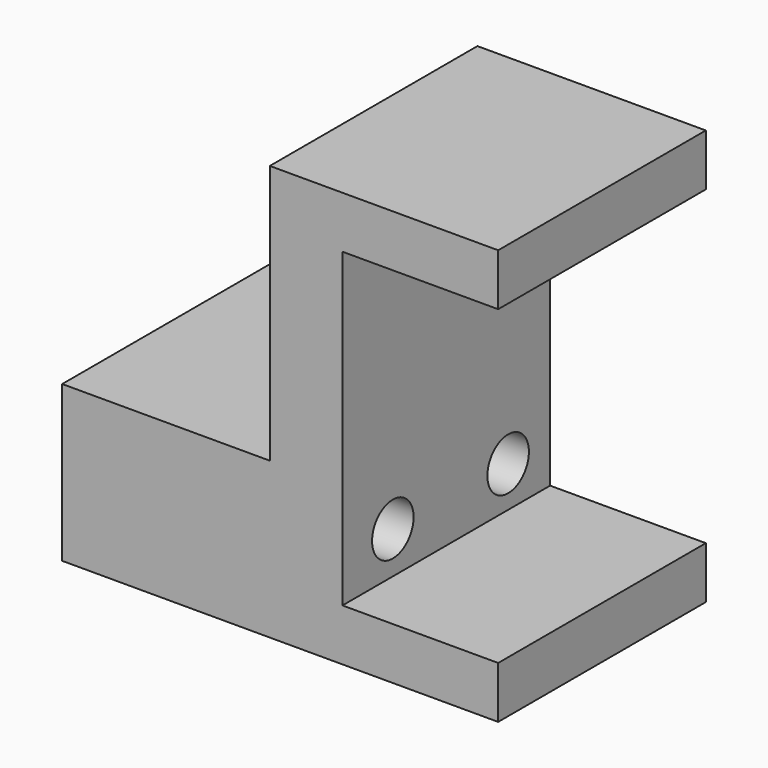
from build123d import *

# Parameters (mm, degrees)
PAD_DEPTH   = 25
SKETCH001_R = 2.5
HOLE_DEPTH  = 45


with BuildPart() as part:
    # Sketch → Pad (new body)
    with BuildSketch(Plane.XZ):
        Polygon((-21, -19.977354), (21, -19.977354), (21, -14.977354), (6, -14.977354), (6, 15.022646), (21, 15.022646), (21, 20.022646), (-1, 20.022646), (-1, -4.977354), (-21, -4.977354), align=None)
    extrude(amount=PAD_DEPTH)

    # Sketch001 (on Face6 of Pad) → Hole (cut)
    with BuildSketch(Plane(origin=(21, 0, 0), x_dir=(0, 0, 1), z_dir=(1, 0, 0))):
        with Locations((-10.960537, 18.936941)):
            Circle(SKETCH001_R)
        with Locations((-11.072524, 5.050469)):
            Circle(SKETCH001_R)
    extrude(amount=-HOLE_DEPTH, mode=Mode.SUBTRACT)


solid = part.part
